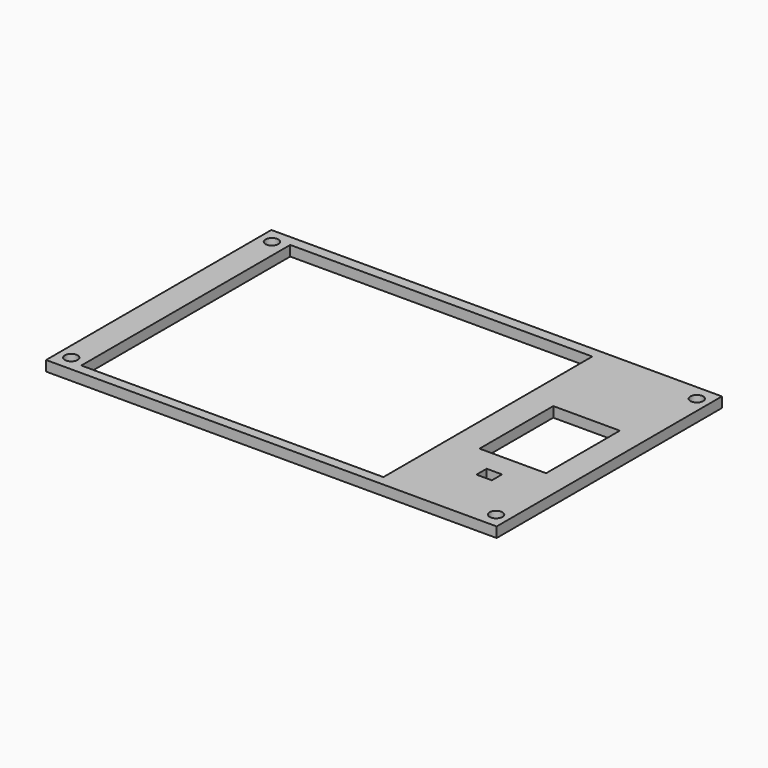
from build123d import *

# Parameters (mm, degrees)
F0_R     = 3.175
F1_DEPTH = 5.08


with BuildPart() as f1:
    # F0 (on Top) → F1 (new body)
    with BuildSketch(Plane.XY):
        Polygon((-196.7800016522, 116.4700038791), (-196.7814051471, 116.4700038791), (-202.7097940445, 116.4700038791), (-202.7097940445, 108.8500038791), (-202.7097940445, 101.2300038791), (-202.7097940445, -23.2299961209), (-196.7800016522, -23.2299961209), (20.8102059555, -23.2299961209), (20.8102059555, 116.4700038791), (15.3085948529, 116.4700038791), (-35.4914051471, 116.4700038791), (-39.3014051471, 116.4700038791), (-90.9497940445, 116.4700038791), (-187.4697940445, 116.4700038791), (-189.1614051471, 116.4700038791), (-195.0897940445, 116.4700038791), align=None)
        with Locations((-196.3344303894, -15.6099961209)):
            Circle(F0_R, mode=Mode.SUBTRACT)
        Polygon((-189.1614051471, -18.3182691255), (-189.1614051471, 111.2217308745), (-189.1583133745, 111.2217308745), (-39.3014051471, 111.2217308745), (-39.3014051471, -18.3182691255), align=None, mode=Mode.SUBTRACT)
        with Locations((14.4348423004, -15.6099961209)):
            Circle(F0_R, mode=Mode.SUBTRACT)
        Polygon((-25.1297818765, 23.5917308745), (-25.1297818765, 69.3117308745), (7.8902181235, 69.3117308745), (7.8902181235, 23.5917308745), (7.8902181235, 5.8117308745), (-4.8097818765, 5.8117308745), (-8.6197818765, 5.8117308745), (-12.4297818765, 5.8117308745), (-25.1297818765, 5.8117308745), align=None, mode=Mode.SUBTRACT)
        with Locations((-196.3344303894, 108.8500038791)):
            Circle(F0_R, mode=Mode.SUBTRACT)
        with Locations((14.4348423004, 108.8500038791)):
            Circle(F0_R, mode=Mode.SUBTRACT)
        Polygon((7.8902181235, 23.5917308745), (-25.1297818765, 23.5917308745), (-25.1297818765, 5.8117308745), (-12.4297818765, 5.8117308745), (-12.4297818765, 12.1617308745), (-4.8097818765, 12.1617308745), (-4.8097818765, 5.8117308745), (7.8902181235, 5.8117308745), align=None)
    extrude(amount=F1_DEPTH)


solid = f1.part
